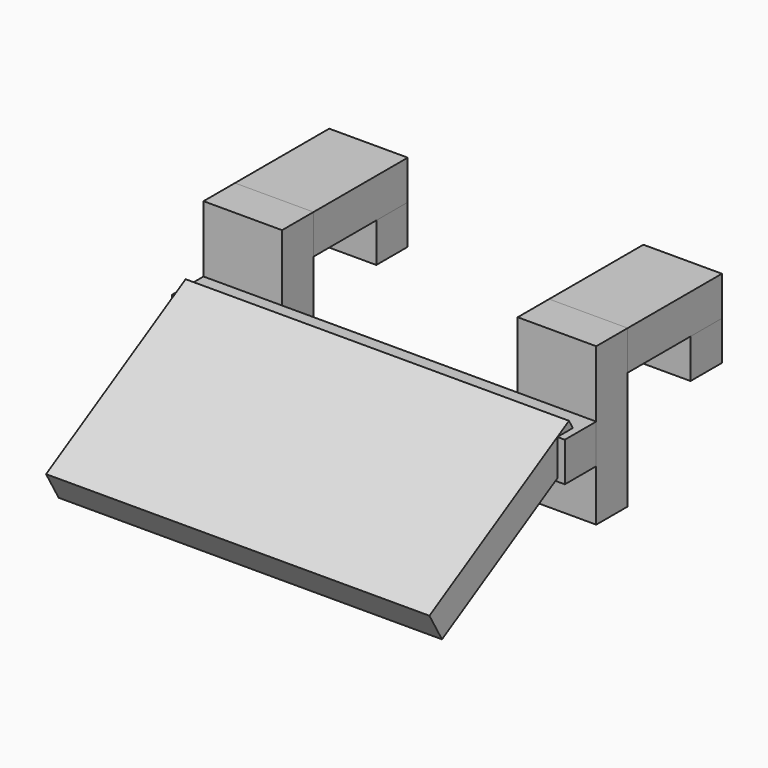
from build123d import *

# Parameters (mm, degrees)
F0_W      = 12.7
F0_H      = 25.4
F1_DEPTH  = 6.35
F2_W      = 12.7
F2_H      = 6.35
F4_DEPTH  = 19.05
F3_W      = 12.7
F3_H      = 6.35
F5_W      = 12.7
F5_H      = 6.35
F7_DEPTH  = 6.35
F6_W      = 12.7
F6_H      = 6.35
F8_W      = 50.8
F8_H      = 6.35
F8_W_2    = 12.7
F9_DEPTH  = 6.35
F11_W     = 61.9835611433
F11_H     = 32.5631750748
F12_DEPTH = 5.08
F14_DEPTH = 2.54
F15_R     = 0.635
F16_DEPTH = 2.54


with BuildPart() as f1:
    # F0 (on Front) → F1 (new body)
    with BuildSketch(Plane.XZ):
        with Locations((-25.4, 6.5199454318)):
            Rectangle(F0_W, F0_H)
    extrude(amount=F1_DEPTH)

    # F15 (on face) → F16 (cut)
    with BuildSketch(Plane(origin=(-31.75, 0, 0), x_dir=(0, -1, 0), z_dir=(-1, 0, 0))):
        with Locations((1.8122547523, -2.6470723096)):
            Circle(F15_R)
        with Locations((26.4526117745, -2.6470723096)):
            Circle(F15_R)
    extrude(amount=F16_DEPTH, mode=Mode.SUBTRACT)


with BuildPart() as f1b:
    # F0 (on Front) → F1, piece 2 (new body)
    with BuildSketch(Plane.XZ):
        with Locations((25.4, 6.5199454318)):
            Rectangle(F0_W, F0_H)
    extrude(amount=F1_DEPTH)


with BuildPart() as f4:
    # F2 (on face) → F4 (new body)
    with BuildSketch(Plane(origin=(0, 0, 0), x_dir=(-1, 0, 0), z_dir=(0, 1, 0))):
        with Locations((-25.4, 16.0449454318)):
            Rectangle(F2_W, F2_H)
    extrude(amount=F4_DEPTH)


with BuildPart() as f4b:
    # F3 (on face) → F4, piece 2 (new body)
    with BuildSketch(Plane(origin=(0, 0, 0), x_dir=(-1, 0, 0), z_dir=(0, 1, 0))):
        with Locations((25.4, 16.0449454318)):
            Rectangle(F3_W, F3_H)
    extrude(amount=F4_DEPTH)


with BuildPart() as f7:
    # F5 (on face) → F7 (new body)
    with BuildSketch(Plane(origin=(0, 0, 12.8699454318), x_dir=(1, 0, 0), z_dir=(0, 0, -1))):
        with Locations((25.4, -15.875)):
            Rectangle(F5_W, F5_H)
    extrude(amount=F7_DEPTH)


with BuildPart() as f7b:
    # F6 (on face) → F7, piece 2 (new body)
    with BuildSketch(Plane(origin=(0, 0, 12.8699454318), x_dir=(1, 0, 0), z_dir=(0, 0, -1))):
        with Locations((-25.4, -15.875)):
            Rectangle(F6_W, F6_H)
    extrude(amount=F7_DEPTH)


with BuildPart() as f9:
    # F8 (on face) → F9 (new body)
    with BuildSketch(Plane.XZ.offset(6.35)):
        with Locations((6.35, 5.3208485242)):
            Rectangle(F8_W, F8_H)
        with Locations((-25.4, 5.3208485242)):
            Rectangle(F8_W_2, F8_H)
    extrude(amount=F9_DEPTH)

    # F11 (on face) → F12 (join)
    with BuildSketch(Plane(origin=(0, -6.8538103243, 11.8711477072), x_dir=(1, 0, 0), z_dir=(0, -0.5, 0.8660254038))):
        with Locations((-0.445750542, -20.3317538835)):
            Rectangle(F11_W, F11_H)
    extrude(amount=-F12_DEPTH)


with BuildPart() as f14:
    # F13 (on face) → F14 (new body)
    with BuildSketch(Plane(origin=(-31.75, 0, 0), x_dir=(0, -1, 0), z_dir=(-1, 0, 0))):
        Polygon((27.9999282211, -1.6870471141), (6.35, -1.6839353901), (6.35, -3.7150227105), (27.8721041995, -3.7150227105), align=None)
        Polygon((6.35, -1.6839353901), (0, -1.6830227105), (0, -3.7150227105), (6.35, -3.7150227105), align=None)
    extrude(amount=-F14_DEPTH)


solid = Compound([f1.part, f1b.part, f4.part, f4b.part, f7.part, f7b.part, f9.part, f14.part])
